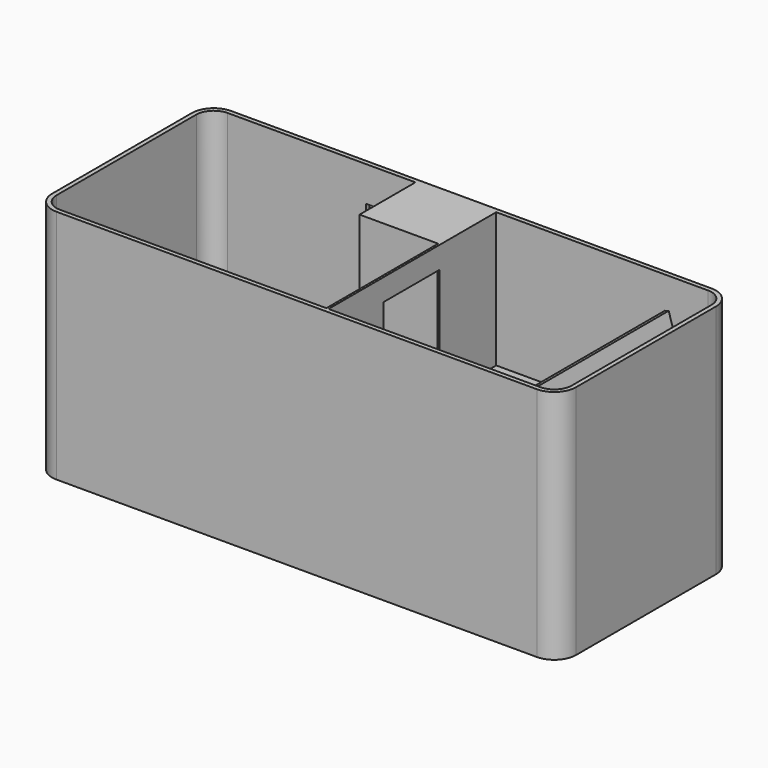
from build123d import *

# Parameters (mm, degrees)
F1_DEPTH  = 2700
F3_DEPTH  = 400
F5_DEPTH  = 555
F7_DEPTH  = 900
F9_DEPTH  = 2400
F10_W     = 1900
F10_H     = 800
F11_DEPTH = 200
F12_W     = 800
F12_H     = 1900
F12_H_2   = 200
F13_DEPTH = 25
F14_W     = 600
F14_H     = 1900
F15_DEPTH = 55
F16_R     = 75
F17_DEPTH = 650
F18_R     = 500
F18_R_2   = 75
F19_DEPTH = 50
F21_DEPTH = 2300


with BuildPart() as f1:
    # F0 (on Top) → F1 (new body)
    with BuildSketch(Plane.XY):
        with BuildLine():
            Line((117.95676, 2423.500269), (-5382.04324, 2423.500269))
            ThreePointArc((-5382.04324, 2423.500269), (-5558.819935, 2350.276964), (-5632.04324, 2173.500269))
            Line((-5632.04324, 2173.500269), (-5632.04324, 173.500269))
            ThreePointArc((-5632.04324, 173.500269), (-5558.819935, -3.276427), (-5382.04324, -76.499731))
            Line((-5382.04324, -76.499731), (117.95676, -76.499731))
            ThreePointArc((117.95676, -76.499731), (294.733456, -3.276427), (367.95676, 173.500269))
            Line((367.95676, 173.500269), (367.95676, 2173.500269))
            ThreePointArc((367.95676, 2173.500269), (294.733456, 2350.276964), (117.95676, 2423.500269))
        make_face()
        with BuildLine():
            ThreePointArc((-5382.04324, -26.499731), (-5523.464596, 32.078912), (-5582.04324, 173.500269))
            Line((-5582.04324, 173.500269), (-5582.04324, 2173.500269))
            ThreePointArc((-5582.04324, 2173.500269), (-5523.464596, 2314.921625), (-5382.04324, 2373.500269))
            Line((-5382.04324, 2373.500269), (117.95676, 2373.500269))
            ThreePointArc((117.95676, 2373.500269), (259.378116, 2314.921625), (317.95676, 2173.500269))
            Line((317.95676, 2173.500269), (317.95676, 173.500269))
            ThreePointArc((317.95676, 173.500269), (259.378116, 32.078912), (117.95676, -26.499731))
            Line((117.95676, -26.499731), (-5382.04324, -26.499731))
        make_face(mode=Mode.SUBTRACT)
    extrude(amount=F1_DEPTH)

    # F2 (on face) → F3 (join)
    with BuildSketch(Plane(origin=(0, 0, 0), x_dir=(1, 0, 0), z_dir=(0, 0, -1))):
        with BuildLine():
            ThreePointArc((-5382.04324, 26.499731), (-5523.464596, -32.078912), (-5582.04324, -173.500269))
            Line((-5582.04324, -173.500269), (-5582.04324, -2173.500269))
            ThreePointArc((-5582.04324, -2173.500269), (-5523.464596, -2314.921625), (-5382.04324, -2373.500269))
            Line((-5382.04324, -2373.500269), (117.95676, -2373.500269))
            ThreePointArc((117.95676, -2373.500269), (259.378116, -2314.921625), (317.95676, -2173.500269))
            Line((317.95676, -2173.500269), (317.95676, -173.500269))
            ThreePointArc((317.95676, -173.500269), (259.378116, -32.078912), (117.95676, 26.499731))
            Line((117.95676, 26.499731), (-5382.04324, 26.499731))
        make_face()
    extrude(amount=-F3_DEPTH)

    # F4 (on face) → F5 (join)
    with BuildSketch(Plane.XY.offset(400)):
        with BuildLine():
            Line((-4082.04324, 1818.500269), (-4082.04324, 2373.500269))
            Line((-4082.04324, 2373.500269), (-5382.04324, 2373.500269))
            ThreePointArc((-5382.04324, 2373.500269), (-5523.464596, 2314.921625), (-5582.04324, 2173.500269))
            Line((-5582.04324, 2173.500269), (-5582.04324, 173.500269))
            ThreePointArc((-5582.04324, 173.500269), (-5523.464596, 32.078912), (-5382.04324, -26.499731))
            Line((-5382.04324, -26.499731), (-3932.04324, -26.499731))
            Line((-3932.04324, -26.499731), (-3932.04324, 528.500269))
            Line((-3932.04324, 528.500269), (-5027.04324, 528.500269))
            Line((-5027.04324, 528.500269), (-5027.04324, 1818.500269))
            Line((-5027.04324, 1818.500269), (-4082.04324, 1818.500269))
        make_face()
    extrude(amount=F5_DEPTH)

    # F6 (on face) → F7 (join)
    with BuildSketch(Plane.XY.offset(400)):
        Polygon((-3932.04324, -26.499731), (-2332.04324, -26.499731), (-2332.04324, 573.500269), (-3932.04324, 573.500269), (-3932.04324, 528.500269), align=None)
    extrude(amount=F7_DEPTH)

    # F8 (on face) → F9 (join)
    with BuildSketch(Plane(origin=(0, -26.499731, 0), x_dir=(-1, 0, 0), z_dir=(0, 1, 0))):
        Polygon((27.01952, 1186.285617), (377.01952, 2334.109646), (332.04324, 2347.824028), (-17.95676, 1200), align=None)
    extrude(amount=F9_DEPTH)

    # F10 (on face) → F11 (join)
    with BuildSketch(Plane.XY.offset(955)):
        with Locations((-1382.04324, 373.500269)):
            Rectangle(F10_W, F10_H)
        with Locations((-1382.04324, 1973.500269)):
            Rectangle(F10_W, F10_H)
    extrude(amount=F11_DEPTH)

    # F12 (on face) → F13 (join)
    with BuildSketch(Plane(origin=(-2332.04324, 0, 0), x_dir=(0, -1, 0), z_dir=(-1, 0, 0))):
        Polygon((-2373.500269, 955), (-2373.500269, 400), (26.499731, 400), (26.499731, 2700), (-2373.500269, 2700), (-2373.500269, 1155), (-1573.500269, 1155), (-1573.500269, 955), align=None)
        with Locations((-1163.214898, 1499.331903)):
            Rectangle(F12_W, F12_H, mode=Mode.SUBTRACT)
        with Locations((-1973.500269, 1055)):
            Rectangle(F12_W, F12_H_2)
    extrude(amount=-F13_DEPTH)

    # F14 (on face) → F15 (cut)
    with BuildSketch(Plane.XZ.offset(-2373.500269)):
        with Locations((-3498.49577, 1350)):
            Rectangle(F14_W, F14_H)
    extrude(amount=-F15_DEPTH, mode=Mode.SUBTRACT)

    # F16 (on face) → F17 (join)
    with BuildSketch(Plane.XY.offset(400)):
        with Locations((-4472.04324, 1173.500269)):
            Circle(F16_R)
    extrude(amount=F17_DEPTH)

    # F20 (on face) → F21 (join)
    with BuildSketch(Plane.XY.offset(400)):
        Polygon((-2332.04324, 1573.500269), (-2332.04324, 2373.500269), (-3198.49577, 2373.500269), (-3232.04324, 2373.500269), (-3232.04324, 1573.500269), align=None)
    extrude(amount=F21_DEPTH)


with BuildPart() as f19:
    # F18 (on face) → F19 (new body)
    with BuildSketch(Plane.XY.offset(1050)):
        with Locations((-4472.04324, 1173.500269)):
            Circle(F18_R)
        with Locations((-4472.04324, 1173.500269)):
            Circle(F18_R_2, mode=Mode.SUBTRACT)
        with Locations((-4472.04324, 1173.500269)):
            Circle(F18_R_2)
    extrude(amount=F19_DEPTH)


solid = Compound([f1.part, f19.part])
